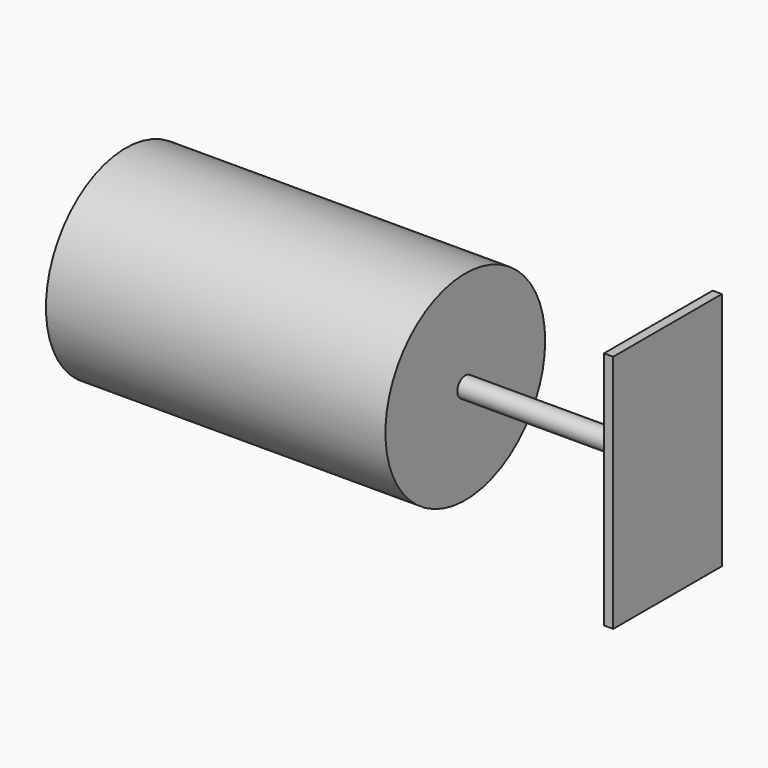
from build123d import *

# Parameters (mm, degrees)
F0_R     = 15.875
F1_DEPTH = 26.9875
F2_R     = 1.5875
F3_DEPTH = 31.75
F4_W     = 1.47257
F4_H     = 21.597792
F5_DEPTH = 19.05


with BuildPart() as f1:
    # F0 (on Right) → F1 (new body, symmetric)
    with BuildSketch(Plane.YZ):
        Circle(F0_R)
    extrude(amount=F1_DEPTH, both=True)

    # F2 (on face) → F3 (join)
    with BuildSketch(Plane.YZ.offset(26.9875)):
        Circle(F2_R)
    extrude(amount=F3_DEPTH)

    # F4 (on Top) → F5 (join, symmetric)
    with BuildSketch(Plane.XY):
        with Locations((58.412209, 0)):
            Rectangle(F4_W, F4_H)
    extrude(amount=F5_DEPTH, both=True)


solid = f1.part
